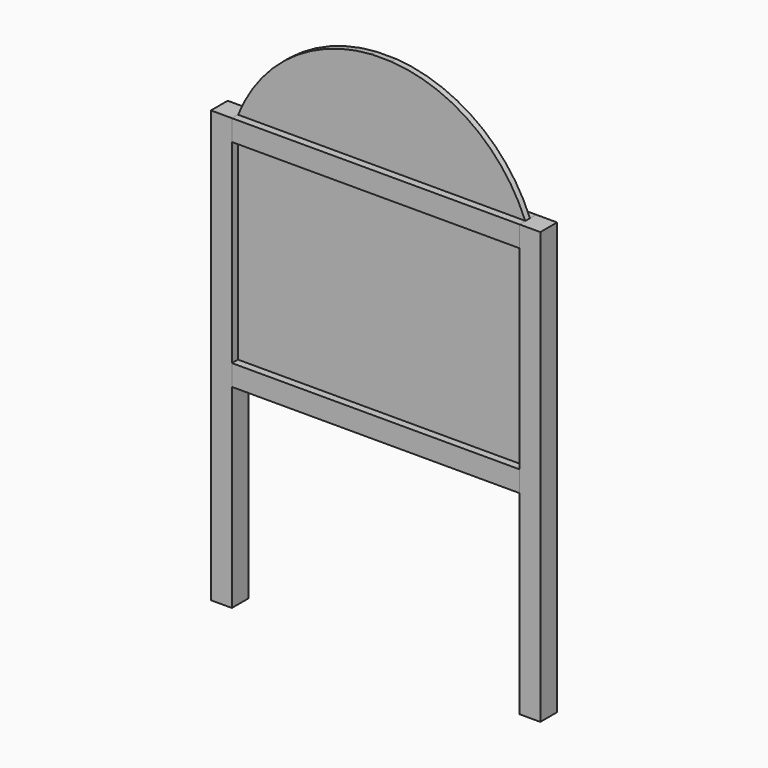
from build123d import *

# Parameters (mm, degrees)
F0_W     = 22.225
F0_H     = 22.225
F1_DEPTH = 457.2
F2_W     = 22.225
F2_H     = 22.225
F3_DEPTH = 304.8
F4_W     = 6.2032067217
F4_H     = 102.4522092819
F4_H_2   = 228.6
F5_DEPTH = 304.8
F7_DEPTH = 6.2032067217
F8_W     = 8.0055892825
F8_H     = 22.225
F9_DEPTH = 304.8
F8_W_2   = 8.001


with BuildPart() as f1:
    # F0 (on Top) → F1 (new body)
    with BuildSketch(Plane.XY):
        with Locations((61.9125, -11.1125)):
            Rectangle(F0_W, F0_H)
    extrude(amount=F1_DEPTH)


with BuildPart() as f1b:
    # F0 (on Top) → F1, piece 2 (new body)
    with BuildSketch(Plane.XY):
        with Locations((388.9375, -11.1125)):
            Rectangle(F0_W, F0_H)
    extrude(amount=F1_DEPTH)


with BuildPart() as f3:
    # F2 (on face) → F3 (new body, through all)
    with BuildSketch(Plane.YZ.offset(73.025)):
        with Locations((-11.1125, 217.4875)):
            Rectangle(F2_W, F2_H)
    extrude(amount=F3_DEPTH)


with BuildPart() as f5:
    # F4 (on face) → F5 (new body)
    with BuildSketch(Plane(origin=(377.825, 0, 0), x_dir=(0, -1, 0), z_dir=(-1, 0, 0))):
        with Locations((11.1223966392, 508.426104641)):
            Rectangle(F4_W, F4_H)
        with Locations((11.1223966392, 342.9)):
            Rectangle(F4_W, F4_H_2)
    extrude(amount=F5_DEPTH)

    # F6 (on face) → F7 (cut, through all)
    with BuildSketch(Plane(origin=(0, -8.0207932783, 0), x_dir=(-1, 0, 0), z_dir=(0, 1, 0))):
        with BuildLine():
            ThreePointArc((-377.825, 456.7500650883), (-321.7172124143, 528.7617500692), (-235.8129277064, 559.6522092819))
            Line((-235.8129277064, 559.6522092819), (-377.825, 559.6522092819))
            Line((-377.825, 559.6522092819), (-377.825, 456.7500650883))
        make_face()
        with BuildLine():
            ThreePointArc((-215.0370722936, 559.6522092819), (-129.1327875857, 528.7617500692), (-73.025, 456.7500650883))
            Line((-73.025, 456.7500650883), (-73.025, 559.6522092819))
            Line((-73.025, 559.6522092819), (-215.0370722936, 559.6522092819))
        make_face()
    extrude(amount=-F7_DEPTH, mode=Mode.SUBTRACT)


with BuildPart() as f9:
    # F8 (on face) → F9 (new body, through all)
    with BuildSketch(Plane(origin=(377.825, 0, 0), x_dir=(0, -1, 0), z_dir=(-1, 0, 0))):
        with Locations((18.2222053587, 446.0875)):
            Rectangle(F8_W, F8_H)
    extrude(amount=F9_DEPTH)


with BuildPart() as f9b:
    # F8 (on face) → F9, piece 2 (new body, through all)
    with BuildSketch(Plane(origin=(377.825, 0, 0), x_dir=(0, -1, 0), z_dir=(-1, 0, 0))):
        with Locations((4.0005, 446.0875)):
            Rectangle(F8_W_2, F8_H)
    extrude(amount=F9_DEPTH)


solid = Compound([f1.part, f1b.part, f3.part, f5.part, f9.part, f9b.part])
